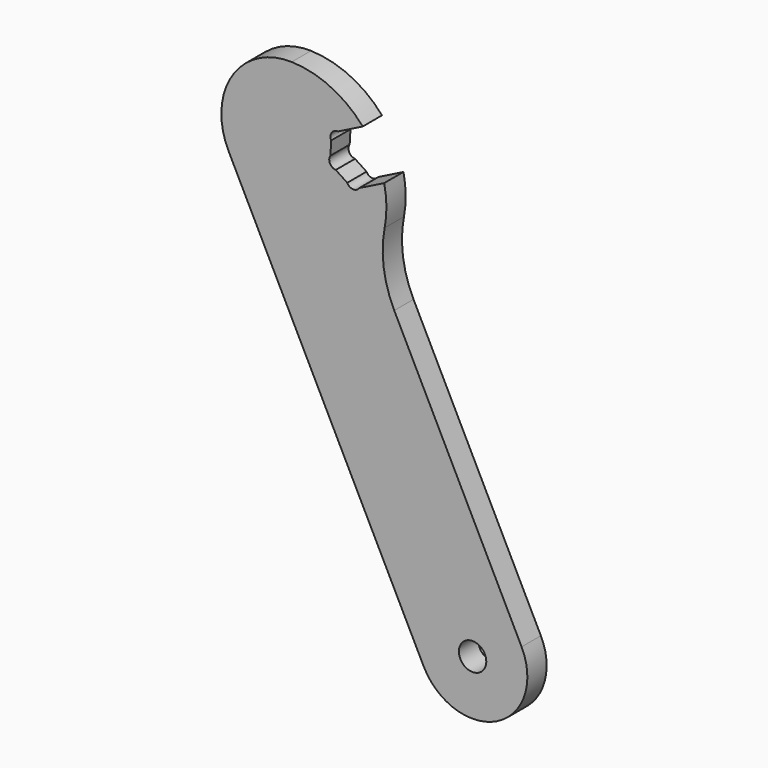
from build123d import *

# Parameters (mm, degrees)
F1_R     = 3.175
F2_DEPTH = 5.588


with BuildPart() as f2:
    # F1 (on Front) → F2 (new body)
    with BuildSketch(Plane.XZ):
        with BuildLine():
            ThreePointArc((-168.132659, 158.24496), (-169.575281, 157.52365), (-170.921265, 158.412341))
            Line((-170.921265, 158.412341), (-173.583362, 160.170002))
            ThreePointArc((-173.583362, 160.170002), (-174.929346, 161.058693), (-174.832709, 162.668696))
            Line((-174.832709, 162.668696), (-174.641579, 165.852969))
            ThreePointArc((-174.641579, 165.852969), (-174.544942, 167.462972), (-173.10232, 168.184283))
            Line((-173.10232, 168.184283), (-167.326606, 171.07214))
            ThreePointArc((-167.326606, 171.07214), (-174.733897, 176.716422), (-183.78843, 178.893881))
            ThreePointArc((-183.78843, 178.893881), (-197.623858, 171.562437), (-198.438835, 155.925784))
            Line((-198.438835, 155.925784), (-153.211943, 65.471998))
            ThreePointArc((-153.211943, 65.471998), (-136.173105, 59.792386), (-130.493492, 76.831224))
            Line((-130.493492, 76.831224), (-160.01854, 135.88132))
            ThreePointArc((-160.01854, 135.88132), (-162.46282, 143.776877), (-162.242683, 152.039193))
            ThreePointArc((-162.242683, 152.039193), (-161.837572, 156.591814), (-162.356945, 161.132818))
            Line((-162.356945, 161.132818), (-168.132659, 158.24496))
        make_face()
        with Locations((-141.852717, 71.151611)):
            Circle(F1_R, mode=Mode.SUBTRACT)
    extrude(amount=F2_DEPTH)


solid = f2.part
